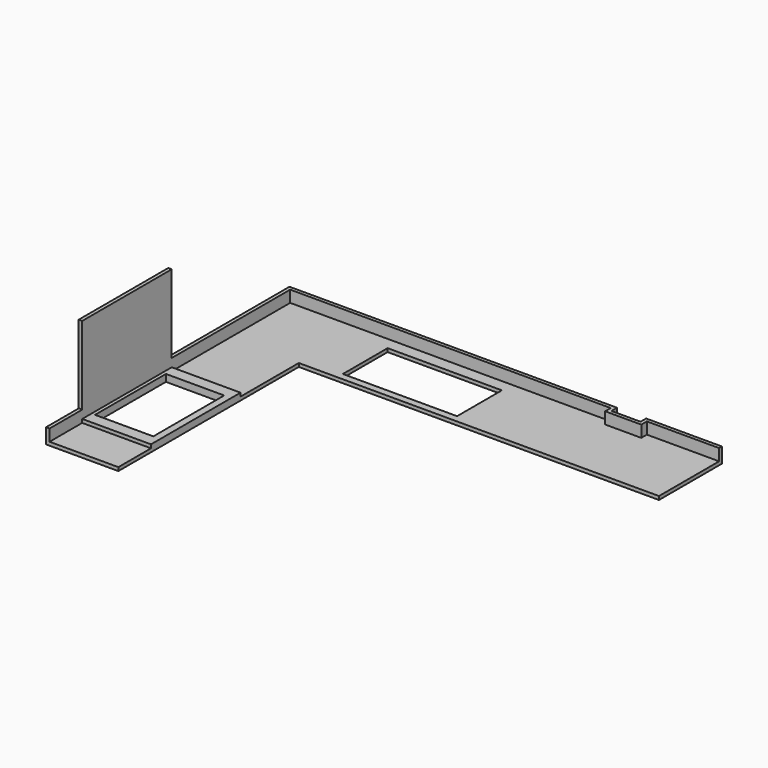
from build123d import *

# Parameters (mm, degrees)
F0_W     = 500
F0_H     = 760
F0_W_2   = 980
F0_H_2   = 480
F1_DEPTH = 30
F2_W     = 620
F2_H     = 960
F2_W_2   = 500
F2_H_2   = 760
F3_DEPTH = 30
F4_W     = 30
F4_H     = 960
F5_DEPTH = 740
F6_W     = 30
F6_H     = 30
F6_H_2   = 1270
F7_DEPTH = 100
F8_W     = 30
F8_H     = 350
F9_DEPTH = 100


with BuildPart() as f1:
    # F0 (on Top) → F1 (new body)
    with BuildSketch(Plane.XY):
        Polygon((0, -1935), (0, 0), (3090, 0), (3090, 675), (2440, 675), (2440, 615), (2190, 615), (2190, 675), (-620, 675), (-620, -1935), align=None)
        with Locations((-310, -1105)):
            Rectangle(F0_W, F0_H, mode=Mode.SUBTRACT)
        with Locations((820, 300)):
            Rectangle(F0_W_2, F0_H_2, mode=Mode.SUBTRACT)
    extrude(amount=F1_DEPTH)

    # F2 (on face) → F3 (join)
    with BuildSketch(Plane.XY.offset(30)):
        with Locations((-310, -1105)):
            Rectangle(F2_W, F2_H)
        with Locations((-310, -1105)):
            Rectangle(F2_W_2, F2_H_2, mode=Mode.SUBTRACT)
    extrude(amount=F3_DEPTH)

    # F4 (on face) → F5 (join)
    with BuildSketch(Plane.XY.offset(60)):
        with Locations((-605, -1105)):
            Rectangle(F4_W, F4_H)
    extrude(amount=F5_DEPTH)

    # F6 (on face) → F7 (join)
    with BuildSketch(Plane.XY.offset(30)):
        Polygon((3090, 645), (3090, 675), (2440, 675), (2440, 645), (2470, 645), align=None)
        with Locations((2455, 630)):
            Rectangle(F6_W, F6_H)
        Polygon((2470, 615), (2440, 615), (2190, 615), (2160, 615), (2160, 585), (2470, 585), align=None)
        with Locations((2175, 630)):
            Rectangle(F6_W, F6_H)
        Polygon((2160, 645), (2190, 645), (2190, 675), (-620, 675), (-620, 645), (-590, 645), align=None)
        with Locations((-605, 10)):
            Rectangle(F6_W, F6_H_2)
    extrude(amount=F7_DEPTH)

    # F8 (on face) → F9 (join)
    with BuildSketch(Plane.XY.offset(30)):
        with Locations((-605, -1760)):
            Rectangle(F8_W, F8_H)
    extrude(amount=F9_DEPTH)


solid = f1.part
